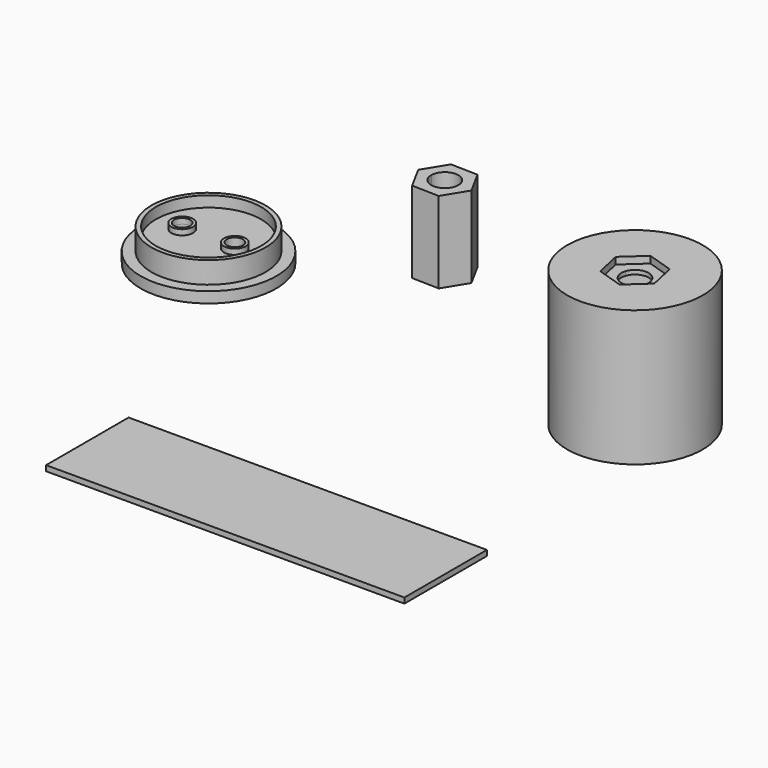
from build123d import *

# Parameters (mm, degrees)
F1_DEPTH  = 15
F5_DEPTH  = 25
F6_DEPTH  = 1.25
F7_W      = 0.8
F7_H      = 2
F9_R      = 2
F9_R_2    = 1.5
F10_DEPTH = 1
F11_DEPTH = 25
F12_W     = 66
F12_H     = 19
F13_DEPTH = 1


with BuildPart() as f1:
    # F0 (on Top) → F1 (new body)
    with BuildSketch(Plane.XY):
        with BuildLine():
            Line((-27.9680936464, 18.9234757941), (-25.4688717607, 18.8611062027))
            Line((-25.4688717607, 18.8611062027), (-27.8600663452, 23.2522550796))
            Line((-27.8600663452, 23.2522550796), (-32.8585101166, 23.3769942625))
            Line((-32.8585101166, 23.3769942625), (-35.4657593036, 19.1105845686))
            Line((-35.4657593036, 19.1105845686), (-32.9665374179, 19.0482149771))
            ThreePointArc((-32.9665374179, 19.0482149771), (-30.4361283096, 21.4856508495), (-27.9673155322, 18.9858453856))
            ThreePointArc((-27.9673155322, 18.9858453856), (-27.9675100683, 18.9546581631), (-27.9680936464, 18.9234757941))
        make_face()
        with BuildLine():
            Line((-28.0761209477, 14.5946965087), (-25.4688717607, 18.8611062027))
            Line((-25.4688717607, 18.8611062027), (-27.9680936464, 18.9234757941))
            ThreePointArc((-27.9680936464, 18.9234757941), (-30.5296851236, 16.4866234999), (-32.9665374179, 19.0482149771))
            Line((-32.9665374179, 19.0482149771), (-35.4657593036, 19.1105845686))
            Line((-35.4657593036, 19.1105845686), (-33.0745647191, 14.7194356916))
            Line((-33.0745647191, 14.7194356916), (-28.0761209477, 14.5946965087))
        make_face()
    extrude(amount=F1_DEPTH)


with BuildPart() as f3:
    # F2 (on Front) → F3 (revolve)
    with BuildSketch(Plane.XZ):
        Polygon((7.2549805045, 24.4458311237), (7.2549805045, -0.5541688763), (9.2549805045, -0.5541688763), (9.2549805045, 22.4458311237), (19.7549805045, 22.4458311237), (19.7549805045, 24.4458311237), align=None)
    revolve(axis=Axis((19.7549805045, 0, 23.4458311237), (0, 0, -1)))

    # F4 (on face) → F5 (cut)
    with BuildSketch(Plane.XY.offset(24.4458311237)):
        with BuildLine():
            Line((22.1376669218, -0.7568391089), (17.3722940872, 0.7568391089))
            ThreePointArc((17.3722940872, 0.7568391089), (18.9981413957, -2.3826864173), (22.1376669218, -0.7568391089))
        make_face()
        with BuildLine():
            ThreePointArc((22.2549805045, 0), (20.1379191136, 2.4704975251), (17.3722940872, 0.7568391089))
            Line((17.3722940872, 0.7568391089), (22.1376669218, -0.7568391089))
            ThreePointArc((22.1376669218, -0.7568391089), (22.2254780296, -0.3829386091), (22.2549805045, 0))
        make_face()
    extrude(amount=-F5_DEPTH, mode=Mode.SUBTRACT)

    # F4 (on face) → F6 (cut)
    with BuildSketch(Plane.XY.offset(24.4458311237)):
        with BuildLine():
            Line((23.4485507115, 3.3700948244), (18.6831778769, 4.8837730422))
            Line((18.6831778769, 4.8837730422), (14.9896076699, 1.5136782177))
            Line((14.9896076699, 1.5136782177), (17.3722940872, 0.7568391089))
            ThreePointArc((17.3722940872, 0.7568391089), (20.1379191136, 2.4704975251), (22.2549805045, 0))
            ThreePointArc((22.2549805045, 0), (22.2254780296, -0.3829386091), (22.1376669218, -0.7568391089))
            Line((22.1376669218, -0.7568391089), (24.5203533392, -1.5136782177))
            Line((24.5203533392, -1.5136782177), (23.4485507115, 3.3700948244))
        make_face()
        with BuildLine():
            Line((17.3722940872, 0.7568391089), (14.9896076699, 1.5136782177))
            Line((14.9896076699, 1.5136782177), (16.0614102975, -3.3700948244))
            Line((16.0614102975, -3.3700948244), (20.8267831321, -4.8837730422))
            Line((20.8267831321, -4.8837730422), (24.5203533392, -1.5136782177))
            Line((24.5203533392, -1.5136782177), (22.1376669218, -0.7568391089))
            ThreePointArc((22.1376669218, -0.7568391089), (18.9981413957, -2.3826864173), (17.3722940872, 0.7568391089))
        make_face()
    extrude(amount=-F6_DEPTH, mode=Mode.SUBTRACT)


with BuildPart() as f8:
    # F7 (on Front) → F8 (revolve)
    with BuildSketch(Plane.XZ):
        Polygon((-71.3055579922, 2), (-71.3055579922, 0), (-58.8055579922, 0), (-58.8055579922, 4), (-68.5055579922, 4), (-69.3055579922, 4), (-69.3055579922, 2), align=None)
        with Locations((-68.9055579922, 5)):
            Rectangle(F7_W, F7_H)
    revolve(axis=Axis((-58.8055579922, 0, 2), (0, 0, -1)))

    # F9 (on face) → F10 (join)
    with BuildSketch(Plane.XY.offset(4)):
        with Locations((-63.6555579922, 0)):
            Circle(F9_R)
        with Locations((-63.6555579922, 0)):
            Circle(F9_R_2, mode=Mode.SUBTRACT)
        with BuildLine():
            ThreePointArc((-51.9555579922, 0), (-53.9555579922, 2), (-55.9555579922, 0))
            ThreePointArc((-55.9555579922, 0), (-53.9555579922, -2), (-51.9555579922, 0))
        make_face()
        with BuildLine():
            ThreePointArc((-52.4555579922, 0), (-53.9555579922, -1.5), (-55.4555579922, 0))
            ThreePointArc((-55.4555579922, 0), (-53.9555579922, 1.5), (-52.4555579922, 0))
        make_face(mode=Mode.SUBTRACT)
    extrude(amount=F10_DEPTH)

    # F11 (cut): faces of the model
    f11_faces = [f8.faces().sort_by_distance(p)[0] for p in [
        (-53.9555579922, 0, 4),
        (-63.6555579922, 0, 4),
    ]]
    extrude(f11_faces, amount=-F11_DEPTH, mode=Mode.SUBTRACT)


with BuildPart() as f13:
    # F12 (on Top) → F13 (new body)
    with BuildSketch(Plane.XY):
        with Locations((-3.5955148538, -55.6588086109)):
            Rectangle(F12_W, F12_H)
    extrude(amount=F13_DEPTH)


solid = Compound([f1.part, f3.part, f8.part, f13.part])
